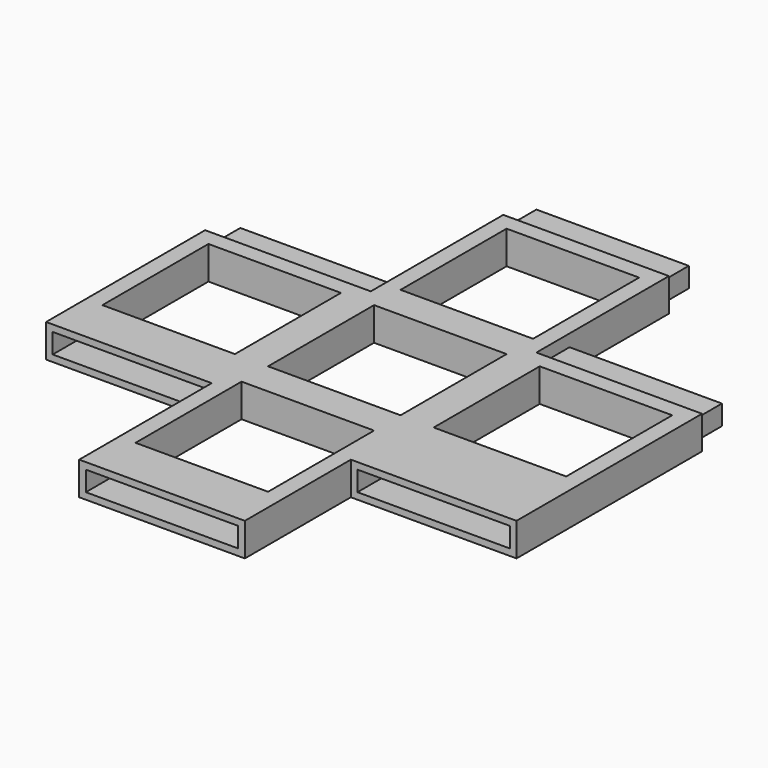
from build123d import *

# Parameters (mm, degrees)
F0_W      = 127
F0_H      = 127
F0_W_2    = 101.6
F0_H_2    = 101.6
F1_DEPTH  = 25.4
F2_W      = 116.84
F2_H      = 15.24
F3_DEPTH  = 25.4
F5_W      = 113.6791649616
F5_H      = 12.0791649616
F6_DEPTH  = 25.4
F7_W      = 5.08
F7_H      = 15.24
F7_W_2    = 111.76
F8_DEPTH  = 25.4
F9_W      = 127
F9_H      = 25.4
F9_W_2    = 116.84
F9_H_2    = 15.24
F10_DEPTH = 25.4
F11_W     = 127
F11_H     = 25.4
F11_W_2   = 116.84
F11_H_2   = 15.24
F12_DEPTH = 25.4
F13_W     = 127
F13_H     = 25.4
F13_W_2   = 116.84
F13_H_2   = 15.24
F14_DEPTH = 25.4
F15_W     = 127
F15_H     = 25.4
F15_W_2   = 116.84
F15_H_2   = 15.24
F16_DEPTH = 25.4


with BuildPart() as f1:
    # F0 (on Top) → F1 (new body)
    with BuildSketch(Plane.XY):
        with Locations((-0.1885456222, 127.423350506)):
            Rectangle(F0_W, F0_H)
        with Locations((-0.1885456222, 127.423350506)):
            Rectangle(F0_W_2, F0_H_2, mode=Mode.SUBTRACT)
        with Locations((-0.1885456222, 0.423350506)):
            Rectangle(F0_W, F0_H)
        with Locations((-0.1885456222, 0.423350506)):
            Rectangle(F0_W_2, F0_H_2, mode=Mode.SUBTRACT)
        with Locations((-127.1885456222, 0.423350506)):
            Rectangle(F0_W, F0_H)
        with Locations((-127.1885456222, 0.423350506)):
            Rectangle(F0_W_2, F0_H_2, mode=Mode.SUBTRACT)
        with Locations((126.8114543778, 0.423350506)):
            Rectangle(F0_W, F0_H)
        with Locations((126.8114543778, 0.423350506)):
            Rectangle(F0_W_2, F0_H_2, mode=Mode.SUBTRACT)
        with Locations((-0.1885456222, -126.576649494)):
            Rectangle(F0_W, F0_H)
        with Locations((-0.1885456222, -126.576649494)):
            Rectangle(F0_W_2, F0_H_2, mode=Mode.SUBTRACT)
    extrude(amount=F1_DEPTH)

    # F2 (on face) → F3 (join)
    with BuildSketch(Plane(origin=(0, 190.923350506, 0), x_dir=(-1, 0, 0), z_dir=(0, 1, 0))):
        with Locations((0.1885456222, 12.7)):
            Rectangle(F2_W, F2_H)
    extrude(amount=F3_DEPTH)

    # F5 (on face) → F6 (join)
    with BuildSketch(Plane(origin=(0, 63.923350506, 0), x_dir=(-1, 0, 0), z_dir=(0, 1, 0))):
        with Locations((127.1885456222, 12.7)):
            Rectangle(F5_W, F5_H)
    extrude(amount=F6_DEPTH)

    # F7 (on face) → F8 (join)
    with BuildSketch(Plane(origin=(0, 63.923350506, 0), x_dir=(-1, 0, 0), z_dir=(0, 1, 0))):
        with Locations((-182.6914543778, 12.7)):
            Rectangle(F7_W, F7_H)
        with Locations((-124.2714543778, 12.7)):
            Rectangle(F7_W_2, F7_H)
    extrude(amount=F8_DEPTH)

    # F9 (on face) → F10 (join)
    with BuildSketch(Plane.XZ.offset(63.076649494)):
        with Locations((126.8114543778, 12.7)):
            Rectangle(F9_W, F9_H)
        with Locations((126.8114543778, 12.7)):
            Rectangle(F9_W_2, F9_H_2, mode=Mode.SUBTRACT)
        with Locations((126.8114543778, 12.7)):
            Rectangle(F9_W_2, F9_H_2)
    extrude(amount=F10_DEPTH)

    # F11 (on face) → F12 (join)
    with BuildSketch(Plane.XZ.offset(88.476649494)):
        with Locations((126.8114543778, 12.7)):
            Rectangle(F11_W, F11_H)
        with Locations((126.8114543778, 12.7)):
            Rectangle(F11_W_2, F11_H_2, mode=Mode.SUBTRACT)
    extrude(amount=F12_DEPTH)

    # F13 (on face) → F14 (join)
    with BuildSketch(Plane.XZ.offset(190.076649494)):
        with Locations((-0.1885456222, 12.7)):
            Rectangle(F13_W, F13_H)
        with Locations((-0.1885456222, 12.7)):
            Rectangle(F13_W_2, F13_H_2, mode=Mode.SUBTRACT)
    extrude(amount=F14_DEPTH)

    # F15 (on face) → F16 (join)
    with BuildSketch(Plane.XZ.offset(63.076649494)):
        with Locations((-127.1885456222, 12.7)):
            Rectangle(F15_W, F15_H)
        with Locations((-127.1885456222, 12.7)):
            Rectangle(F15_W_2, F15_H_2, mode=Mode.SUBTRACT)
    extrude(amount=F16_DEPTH)


solid = f1.part
